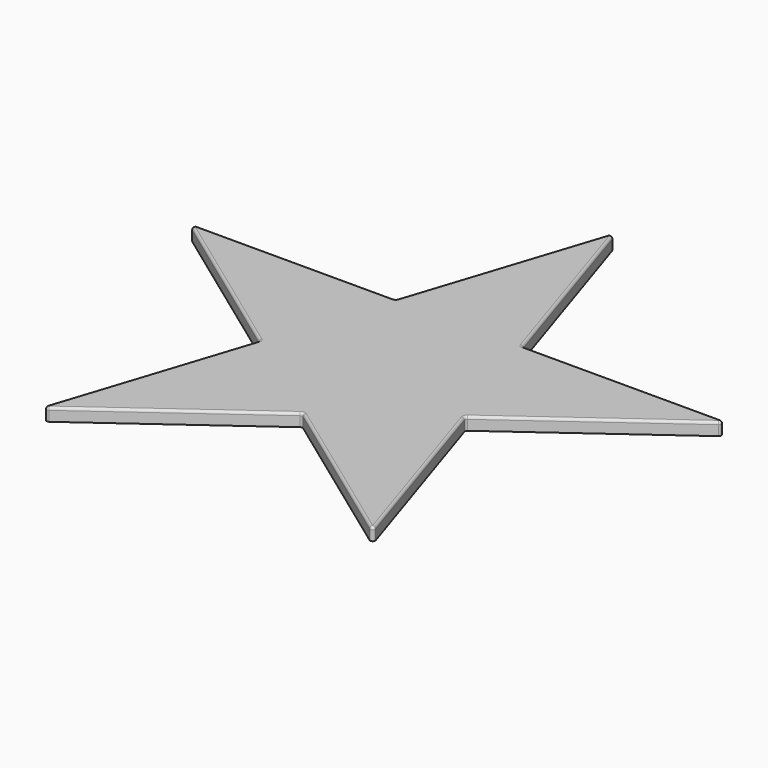
from build123d import *

# Parameters (mm, degrees)
F1_DEPTH = 2.5
F2_R     = 0.5
F3_R     = 0.5


with BuildPart() as f1:
    # F0 (on Top) → F1 (new body)
    with BuildSketch(Plane.XY):
        Polygon((-20.4225578644, -6.6356912976), (-12.6218348974, 17.372465356), (-53.4669506262, 17.372465356), align=None)
        Polygon((12.6218348974, 17.372465356), (0, 56.2184788287), (-12.6218348974, 17.372465356), align=None)
        Polygon((12.6218348974, 17.372465356), (-12.6218348974, 17.372465356), (-20.4225578644, -6.6356912976), (0, -21.4735481167), (20.4225578644, -6.6356912976), align=None)
        Polygon((53.4669506262, 17.372465356), (12.6218348974, 17.372465356), (20.4225578644, -6.6356912976), align=None)
        Polygon((33.0443927618, -45.4817047703), (20.4225578644, -6.6356912976), (0, -21.4735481167), align=None)
        Polygon((0, -21.4735481167), (-20.4225578644, -6.6356912976), (-33.0443927618, -45.4817047703), align=None)
    extrude(amount=F1_DEPTH)

    # F2
    f2_edges = [f1.edges().sort_by_distance(p)[0] for p in [
        (0, 56.218479, 1.25),
        (-53.466951, 17.372465, 1.25),
        (-33.044393, -45.481705, 1.25),
        (33.044393, -45.481705, 1.25),
        (53.466951, 17.372465, 1.25),
        (-20.422558, -6.635691, 1.25),
        (-12.621835, 17.372465, 1.25),
        (12.621835, 17.372465, 1.25),
        (20.422558, -6.635691, 1.25),
        (0, -21.473548, 1.25),
    ]]
    fillet(f2_edges, radius=F2_R)

    # F3
    f3_edges = [f1.edges().sort_by_distance(p)[0] for p in [
        (6.492553, 36.236455, 2.5),
        (-6.492553, 36.236455, 2.5),
        (32.456608, 17.372465, 2.5),
        (36.469226, 5.022896, 2.5),
        (26.55184, -25.499681, 2.5),
        (16.046668, -33.132135, 2.5),
        (-16.046668, -33.132135, 2.5),
        (-26.55184, -25.499681, 2.5),
        (-36.469226, 5.022896, 2.5),
        (-32.456608, 17.372465, 2.5),
        (-32.387229, -44.577196, 2.5),
        (32.387229, -44.577196, 2.5),
        (52.403637, 17.026974, 2.5),
        (0, 55.100445, 2.5),
        (-52.403637, 17.026974, 2.5),
    ]]
    fillet(f3_edges, radius=F3_R)


solid = f1.part
